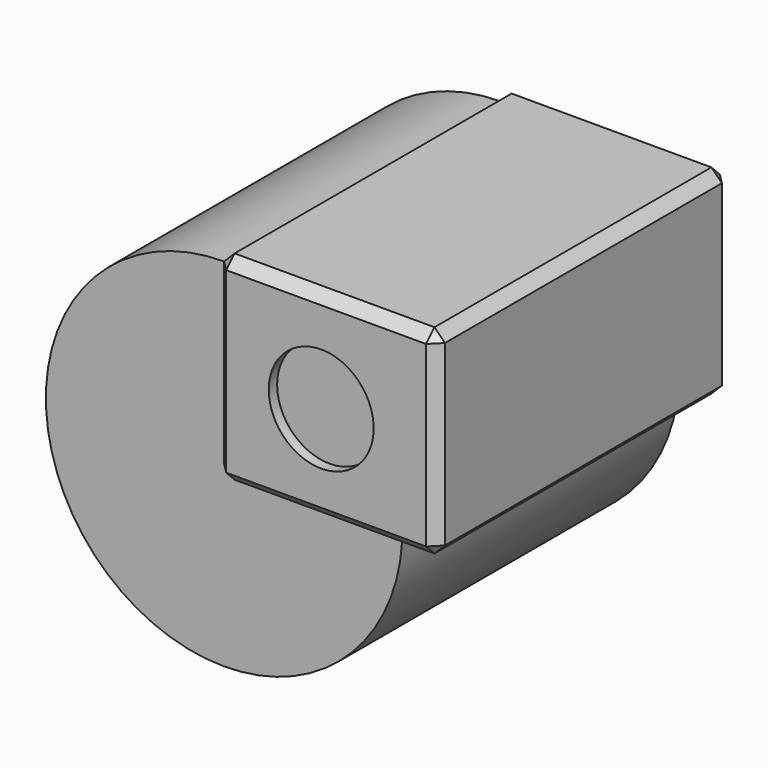
from build123d import *

# Parameters (mm, degrees)
F3_W       = 106.9038137794
F3_H       = 96.4715331793
F4_DEPTH   = 177.8
F5_SIZE    = 5.08
F1_D       = 50.8
F4_FACE1_W = 167.64
F4_FACE1_H = 86.3115331793


with BuildPart() as f4:
    # F3 (on Front) → F4 (new body)
    with BuildSketch(Plane.XZ):
        with Locations((2.3797191679, 1.0631904006)):
            Rectangle(F3_W, F3_H)
    extrude(amount=F4_DEPTH)

    # F5
    f5_edges = [f4.edges().sort_by_distance(p)[0] for p in [
        (55.831626, -88.9, 49.298957),
        (2.379719, -177.8, 49.298957),
        (-51.072188, -177.8, 1.06319),
        (2.379719, -177.8, -47.172576),
        (55.831626, -177.8, 1.06319),
        (2.379719, 0, 49.298957),
        (-51.072188, 0, 1.06319),
        (2.379719, 0, -47.172576),
        (55.831626, 0, 1.06319),
        (-51.072188, -88.9, -47.172576),
        (-51.072188, -88.9, 49.298957),
        (55.831626, -88.9, -47.172576),
    ]]
    chamfer(f5_edges, length=F5_SIZE)

    # F1 (through all)
    with Locations(Plane.XZ.offset(177.8)):
        with Locations((0, 0)):
            Hole(F1_D / 2)

    # F4_face1 (on face) → F2 (revolve)
    with BuildSketch(Plane(origin=(-51.0721877217, -88.9, 1.0631904006), x_dir=(0, -1, 0), z_dir=(-1, 0, 0))):
        Rectangle(F4_FACE1_W, F4_FACE1_H)
    revolve(axis=Axis((-51.0721877217, -88.9, -42.092576189), (0, 1, 0)))


solid = f4.part
